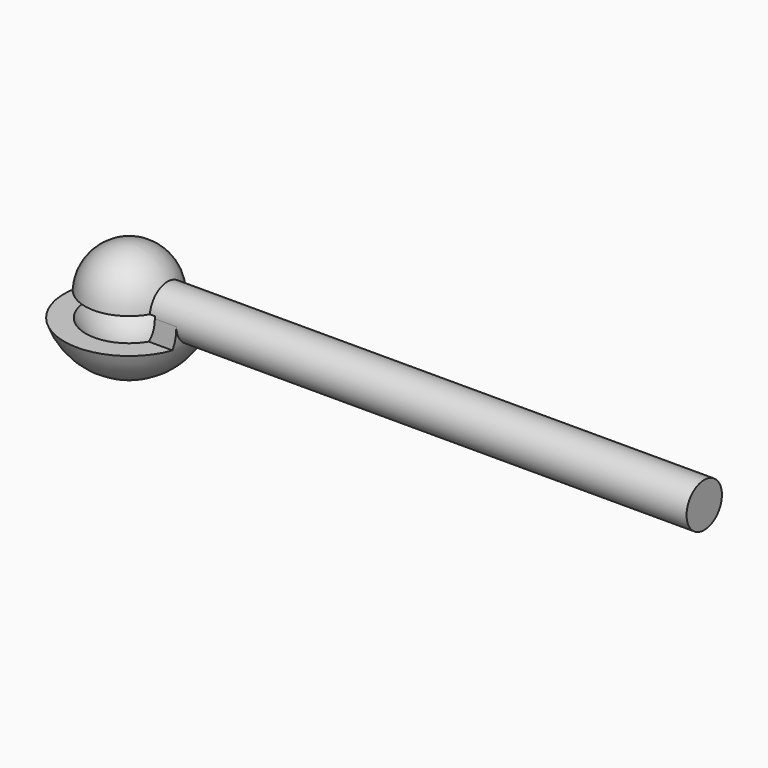
from build123d import *

# Parameters (mm, degrees)
F2_R          = 10
F3_DEPTH      = 0.5
F3_DEPTH_BACK = 10.001
F6_R          = 5
F7_DEPTH      = 130
F11_DEPTH     = 5


with BuildPart() as f1:
    # F0 (on Front) → F1 (revolve)
    with BuildSketch(Plane.XZ):
        with BuildLine():
            Line((0, 10), (0, -10))
            ThreePointArc((0, -10), (10, 0), (0, 10))
        make_face()
    revolve(axis=Axis((0, 0, 0), (0, 0, -1)))

    # F2 (on Top) → F3 (cut, two sides)
    with BuildSketch(Plane.XY) as f3_sk:
        Circle(F2_R)
    extrude(amount=F3_DEPTH, mode=Mode.SUBTRACT)
    extrude(f3_sk.sketch, amount=-F3_DEPTH_BACK, mode=Mode.SUBTRACT)



with BuildPart() as f5:
    # F4 (on Front) → F5 (revolve)
    with BuildSketch(Plane.XZ):
        with BuildLine():
            ThreePointArc((11, 0), (7.7781745931, -7.7781745931), (0, -11))
            Line((0, -11), (0, -15.5))
            ThreePointArc((0, -15.5), (10.9601551084, -10.9601551084), (15.5, 0))
            Line((15.5, 0), (11, 0))
        make_face()
    revolve(axis=Axis((0, 0, -13.25), (0, 0, 1)))


with BuildPart() as f1_1:
    add(f1.part)

    add(f5.part)  # F7 merges F5
    # F6 (on Right) → F7 (join)
    with BuildSketch(Plane.YZ):
        Circle(F6_R)
    extrude(amount=F7_DEPTH)

    # F8 (on Front) → F9 (revolve, cut)
    with BuildSketch(Plane.XZ):
        with BuildLine():
            Line((0, 0.5), (0, -11))
            ThreePointArc((0, -11), (7.9529868603, -7.5993420768), (10.9886304879, 0.5))
            Line((10.9886304879, 0.5), (0, 0.5))
        make_face()
    revolve(axis=Axis((0, 0, -5.25), (0, 0, 1)), mode=Mode.SUBTRACT)

    # F10 (on Top) → F11 (cut)
    with BuildSketch(Plane.XY):
        with BuildLine():
            Line((0, 5), (14.6714007511, 5))
            ThreePointArc((14.6714007511, 5), (-15.5, 0), (14.6714007511, -5))
            Line((14.6714007511, -5), (0, -5))
            Line((0, -5), (0, 5))
        make_face()
    extrude(amount=-F11_DEPTH, mode=Mode.SUBTRACT)


solid = f1_1.part
